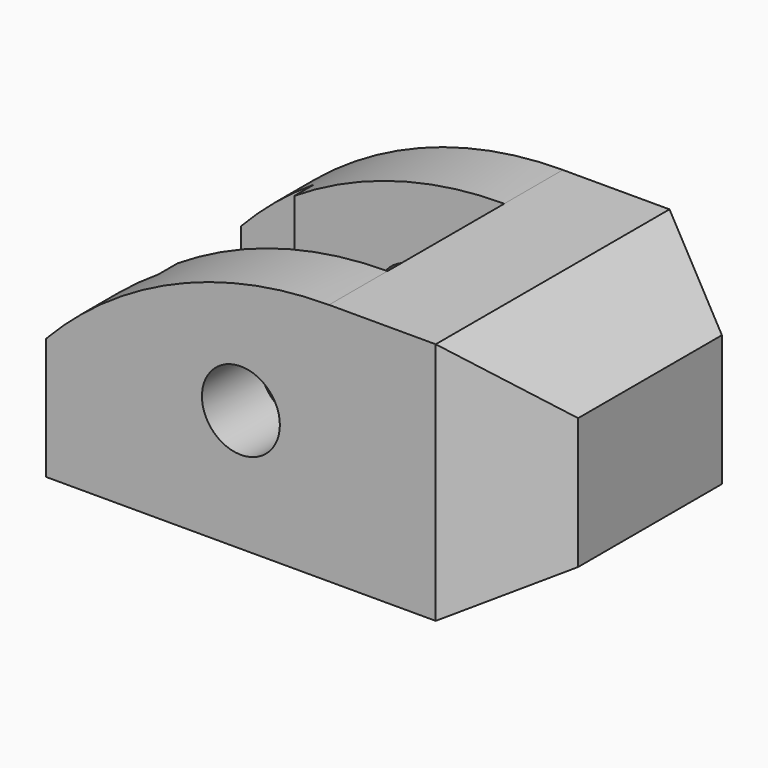
from build123d import *

# Parameters (mm, degrees)
F0_R     = 8
F1_DEPTH = 60
F2_W     = 15
F2_H     = 5
F3_DEPTH = 50.001
F4_DEPTH = 20
F6_DEPTH = 50.001
F8_DEPTH = 60.001


with BuildPart() as f1:
    # F0 (on Front) → F1 (new body)
    with BuildSketch(Plane.XZ):
        with BuildLine():
            Line((-80, 0), (0, 0))
            Line((0, 0), (0, 50))
            Line((0, 50), (-21.9052498069, 50))
            ThreePointArc((-21.9052498069, 50), (-53.5280264086, 43.4846922835), (-80, 25))
            Line((-80, 25), (-80, 0))
        make_face()
        with Locations((-40, 25)):
            Circle(F0_R, mode=Mode.SUBTRACT)
    extrude(amount=F1_DEPTH)

    # F2 (on face) → F3 (cut, through all)
    with BuildSketch(Plane.XY.offset(50)):
        with Locations((-72.5, -12.5)):
            Rectangle(F2_W, F2_H)
        Polygon((-65, -15), (-80, -15), (-80, -45), (-65, -45), (-21.9052498069, -45), (-21.9052498069, -15), align=None)
        with Locations((-72.5, -47.5)):
            Rectangle(F2_W, F2_H)
    extrude(amount=-F3_DEPTH, mode=Mode.SUBTRACT)

    # F4 (add): a face of the model
    f4_faces = [f1.faces().sort_by_distance(p)[0] for p in [
        (0, -30, 25),
    ]]
    extrude(f4_faces, amount=F4_DEPTH)

    # F5 (on face) → F6 (cut, through all)
    with BuildSketch(Plane.XY.offset(50)):
        Polygon((20, 0), (0, 0), (20, -11.5470053838), align=None)
        Polygon((20, -60), (20, -48.4529946162), (0, -60), align=None)
    extrude(amount=-F6_DEPTH, mode=Mode.SUBTRACT)

    # F7 (on face) → F8 (cut, through all)
    with BuildSketch(Plane.XZ.offset(60)):
        Polygon((20, 50), (0, 50), (20, 38.4529946162), align=None)
        Polygon((20, 11.5470053838), (0, 0), (20, 0), align=None)
    extrude(amount=-F8_DEPTH, mode=Mode.SUBTRACT)


solid = f1.part
